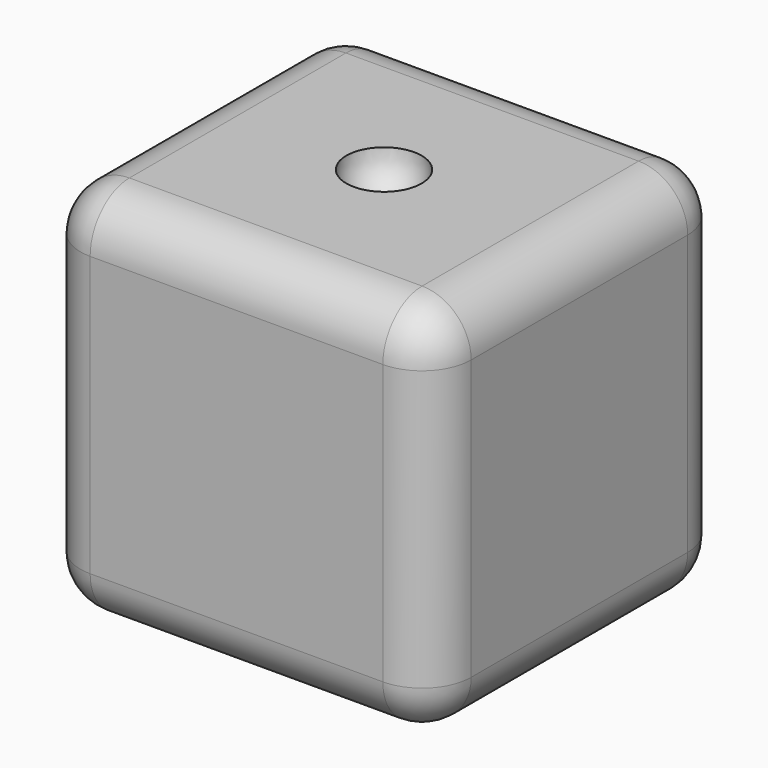
from build123d import *

# Parameters (mm, degrees)
F0_W          = 26.2972526252
F0_H          = 24.8107817024
F1_DEPTH      = 25.4
F2_R          = 3.302
F4_ANGLE_BACK = 180
F4_ANGLE      = 180


with BuildPart() as f1:
    # F0 (on Top) → F1 (new body)
    with BuildSketch(Plane.XY):
        with Locations((49.1204950958, 27.7958931401)):
            Rectangle(F0_W, F0_H)
    extrude(amount=F1_DEPTH)

    # F2
    f2_edges = [f1.edges().sort_by_distance(p)[0] for p in [
        (49.120495, 15.390502, 25.4),
        (62.269121, 27.795893, 25.4),
        (49.120495, 40.201284, 25.4),
        (35.971869, 27.795893, 25.4),
        (62.269121, 40.201284, 12.7),
        (62.269121, 27.795893, 0),
        (49.120495, 40.201284, 0),
        (35.971869, 40.201284, 12.7),
        (49.120495, 15.390502, 0),
        (35.971869, 27.795893, 0),
        (35.971869, 15.390502, 12.7),
        (62.269121, 15.390502, 12.7),
    ]]
    fillet(f2_edges, radius=F2_R)

    # F3 (on face) → F4 (revolve, cut)
    with BuildSketch(Plane.XY.offset(25.4), mode=Mode.PRIVATE) as f4_sk:
        with BuildLine():
            ThreePointArc((50.9804914392, 29.5154946725), (47.4008935635, 29.6558894835), (47.2604987525, 26.0762916078))
            Line((47.2604987525, 26.0762916078), (50.9804914392, 29.5154946725))
        make_face()
    revolve(f4_sk.sketch.rotate(Axis((49.1204950958, 27.7958931401, 25.4), (0.7342755569, 0.678851535, 0)), -F4_ANGLE_BACK), axis=Axis((49.1204950958, 27.7958931401, 25.4), (0.7342755569, 0.678851535, 0)), revolution_arc=F4_ANGLE, mode=Mode.SUBTRACT)

    # F5 (on face) → F6 (revolve, cut)
    with BuildSketch(Plane(origin=(0, 0, 0), x_dir=(1, 0, 0), z_dir=(0, 0, -1))):
        with BuildLine():
            Line((44.1971819395, -23.2441977145), (42.4220417874, -23.2441977145))
            ThreePointArc((42.4220417874, -23.2441977145), (42.9419683004, -24.4994113537), (44.1971819395, -25.0193378667))
            Line((44.1971819395, -25.0193378667), (44.1971819395, -23.2441977145))
        make_face()
        with BuildLine():
            Line((44.1971819395, -23.2441977145), (44.1971819395, -21.4690575624))
            ThreePointArc((44.1971819395, -21.4690575624), (42.9419683004, -21.9889840754), (42.4220417874, -23.2441977145))
            Line((42.4220417874, -23.2441977145), (44.1971819395, -23.2441977145))
        make_face()
    revolve(axis=Axis((44.1971819395, 23.2441977145, 0), (0, 1, 0)), mode=Mode.SUBTRACT)


solid = f1.part
